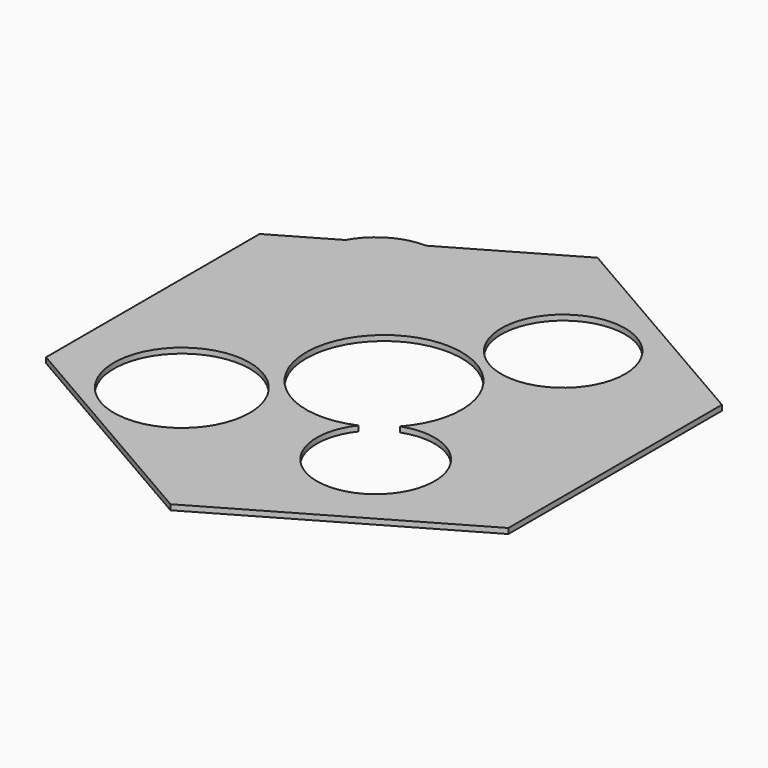
from build123d import *

# Parameters (mm, degrees)
F0_R     = 323.428785403
F0_R_2   = 294.6679923396
F1_DEPTH = 25.4


with BuildPart() as f1:
    # F0 (on Top) → F1 (new body)
    with BuildSketch(Plane.XY):
        with BuildLine():
            Line((1099.8522628062, -635), (1099.8522628062, 635))
            Line((1099.8522628062, 635), (0, 1270))
            Line((0, 1270), (-556.9527887507, 948.4431574889))
            ThreePointArc((-556.9527887507, 948.4431574889), (-352.249392492, 860.1856786599), (-267.9293047998, 653.8292253549))
            ThreePointArc((-267.9293047998, 653.8292253549), (-636.1332788763, 368.4843639923), (-820.5627106613, 796.2478981128))
            Line((-820.5627106613, 796.2478981128), (-1099.8522628062, 635))
            Line((-1099.8522628062, 635), (-1099.8522628062, -635))
            Line((-1099.8522628062, -635), (0, -1270))
            Line((0, -1270), (1099.8522628062, -635))
        make_face()
        with Locations((-552.4604796966, -511.91283597)):
            Circle(F0_R, mode=Mode.SUBTRACT)
        with BuildLine():
            ThreePointArc((149.8022523037, -338.3523627975), (-310.1245981113, 201.8558145117), (370.0311286985, 0))
            ThreePointArc((370.0311286985, 0), (345.2634661141, -133.1021230965), (274.2760756839, -248.3861318861))
            ThreePointArc((274.2760756839, -248.3861318861), (530.8866907619, -282.2978837777), (650.3688585392, -511.91283597))
            ThreePointArc((650.3688585392, -511.91283597), (278.1478121671, -776.8138387645), (149.8022523037, -338.3523627975))
        make_face(mode=Mode.SUBTRACT)
        with Locations((369.9964149628, 603.1447892808)):
            Circle(F0_R_2, mode=Mode.SUBTRACT)
        with BuildLine():
            ThreePointArc((-267.9293047998, 653.8292253549), (-352.249392492, 860.1856786599), (-556.9527887507, 948.4431574889))
            Line((-556.9527887507, 948.4431574889), (-820.5627106613, 796.2478981128))
            ThreePointArc((-820.5627106613, 796.2478981128), (-636.1332788763, 368.4843639923), (-267.9293047998, 653.8292253549))
        make_face()
        with BuildLine():
            Line((-820.5627106613, 796.2478981128), (-556.9527887507, 948.4431574889))
            ThreePointArc((-556.9527887507, 948.4431574889), (-709.9313030998, 909.0191980557), (-820.5627106613, 796.2478981128))
        make_face()
    extrude(amount=F1_DEPTH)


solid = f1.part
